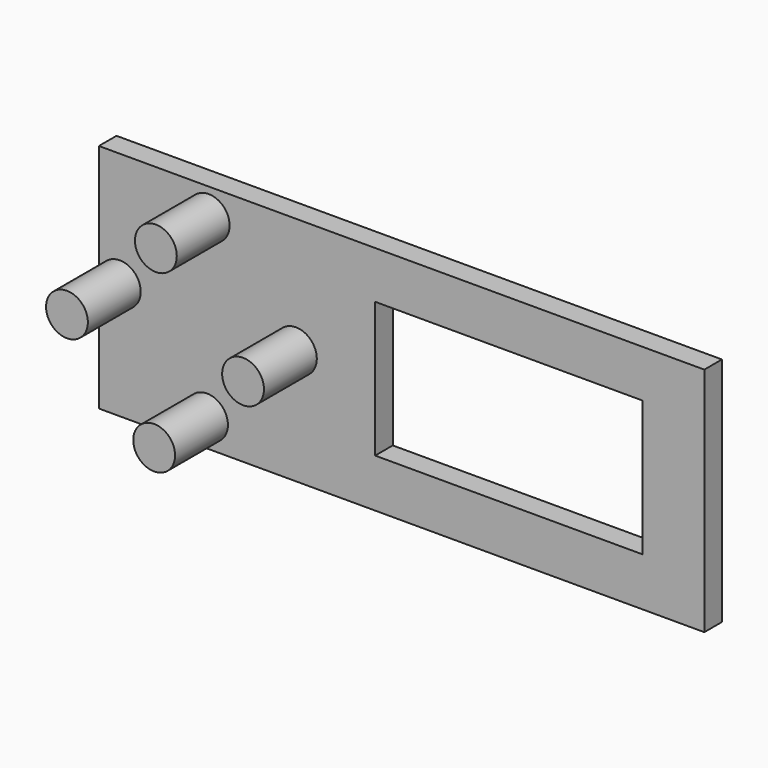
from build123d import *

# Parameters (mm, degrees)
F0_W     = 55
F0_H     = 21
F1_DEPTH = 2
F2_R     = 1.9
F3_DEPTH = 8
F4_W     = 24.3
F4_H     = 12.3
F5_DEPTH = 8.001


with BuildPart() as f1:
    # F0 (on Front) → F1 (new body)
    with BuildSketch(Plane.XZ):
        with Locations((-0.079613, -4.502098)):
            Rectangle(F0_W, F0_H)
    extrude(amount=F1_DEPTH)

    # F2 (on Front) → F3 (join)
    with BuildSketch(Plane.XZ):
        with Locations((-25.681152, -4.425638)):
            Circle(F2_R)
        with Locations((-17.604692, 3.497164)):
            Circle(F2_R)
        with Locations((-9.68189, -4.579296)):
            Circle(F2_R)
        with Locations((-17.75835, -12.502098)):
            Circle(F2_R)
    extrude(amount=F3_DEPTH)

    # F4 (on Front) → F5 (cut, through all)
    with BuildSketch(Plane.XZ):
        with Locations((9.66811, -4.452098)):
            Rectangle(F4_W, F4_H)
    extrude(amount=F5_DEPTH, mode=Mode.SUBTRACT)


solid = f1.part
